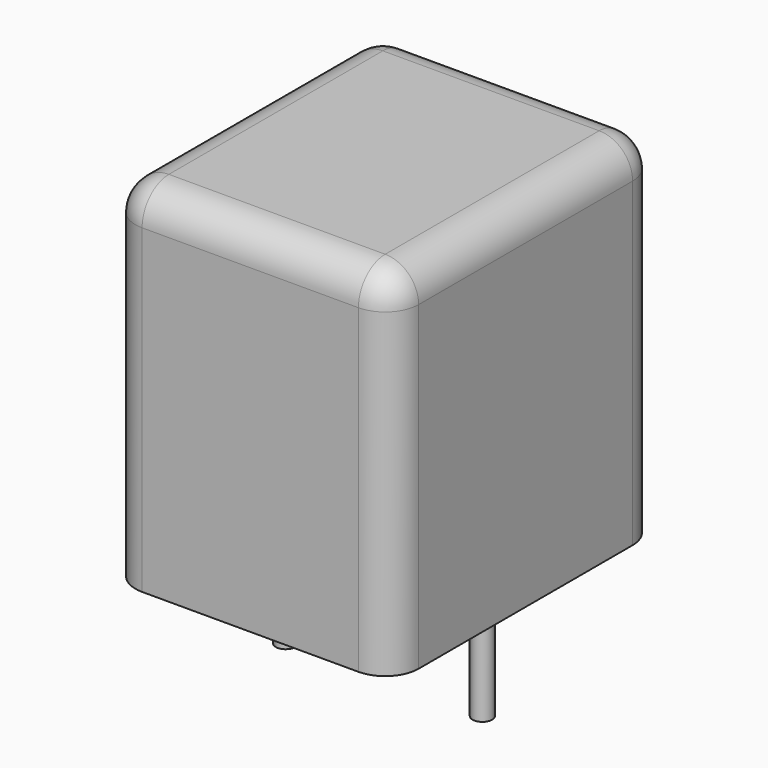
from build123d import *

# Parameters (mm, degrees)
SKETCH_W     = 7.2
SKETCH_H     = 8.5
PAD_DEPTH    = 9
FILLET_R     = 0.85
SKETCH001_R  = 0.25
PAD001_DEPTH = 3.2


with BuildPart() as fillet_body:
    # Sketch → Pad (new body)
    with BuildSketch(Plane.XY.offset(0.1)):
        with Locations((2.5, 0)):
            Rectangle(SKETCH_W, SKETCH_H)
    extrude(amount=PAD_DEPTH)

    # Fillet
    fillet_edges = [fillet_body.edges().sort_by_distance(p)[0] for p in [
        (-1.1, 0, 9.1),
        (-1.1, -4.25, 4.6),
        (2.5, -4.25, 9.1),
        (6.1, -4.25, 4.6),
        (6.1, 0, 9.1),
        (6.1, 4.25, 4.6),
        (2.5, 4.25, 9.1),
        (-1.1, 4.25, 4.6),
    ]]
    fillet(fillet_edges, radius=FILLET_R)


with BuildPart() as pad001:
    # Sketch001 → Pad001 (new body)
    with BuildSketch(Plane.XY.offset(0.5)):
        Circle(SKETCH001_R)
        with Locations((5, 0)):
            Circle(SKETCH001_R)
    extrude(amount=-PAD001_DEPTH)


solid = Compound([fillet_body.part, pad001.part])
